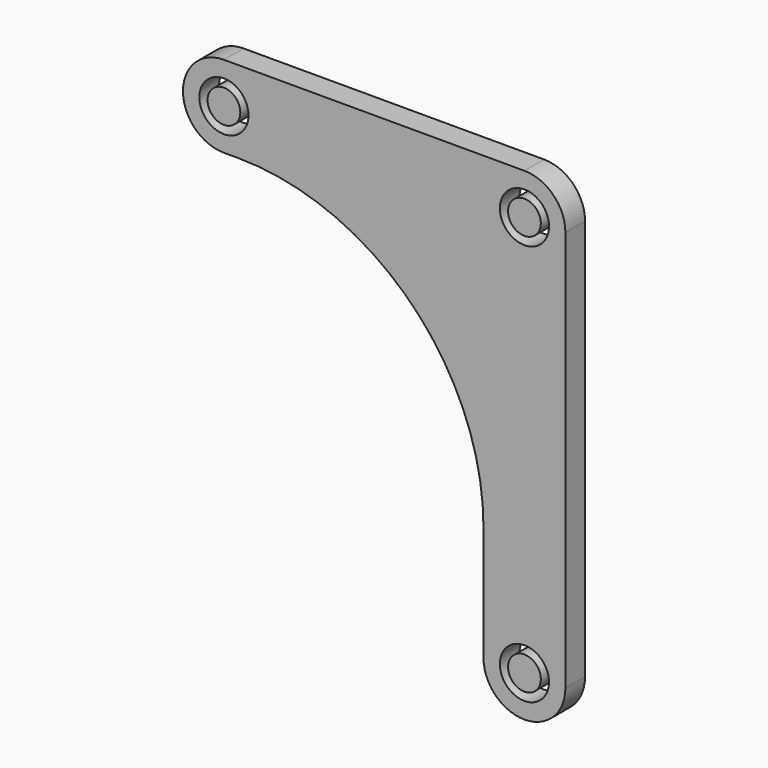
from build123d import *

# Parameters (mm, degrees)
F0_R     = 3
F0_R_2   = 2
F1_DEPTH = 3


with BuildPart() as f1:
    # F0 (on Front) → F1 (new body)
    with BuildSketch(Plane.XZ):
        with BuildLine():
            Line((0, 5), (-36.7, 5))
            ThreePointArc((-36.7, 5), (-41.7, 0), (-36.7, -5))
            Line((-36.7, -5), (-35, -5))
            ThreePointArc((-35, -5), (-13.786797, -13.786797), (-5, -35))
            Line((-5, -35), (-5, -49))
            ThreePointArc((-5, -49), (0, -54), (5, -49))
            Line((5, -49), (5, 0))
            ThreePointArc((5, 0), (3.535534, 3.535534), (0, 5))
        make_face()
        with Locations((0, -49)):
            Circle(F0_R, mode=Mode.SUBTRACT)
        with Locations((-36.7, 0)):
            Circle(F0_R, mode=Mode.SUBTRACT)
        Circle(F0_R, mode=Mode.SUBTRACT)
        with Locations((-36.7, 0)):
            Circle(F0_R_2)
        Circle(F0_R_2)
        with Locations((0, -49)):
            Circle(F0_R_2)
    extrude(amount=F1_DEPTH)


solid = f1.part
